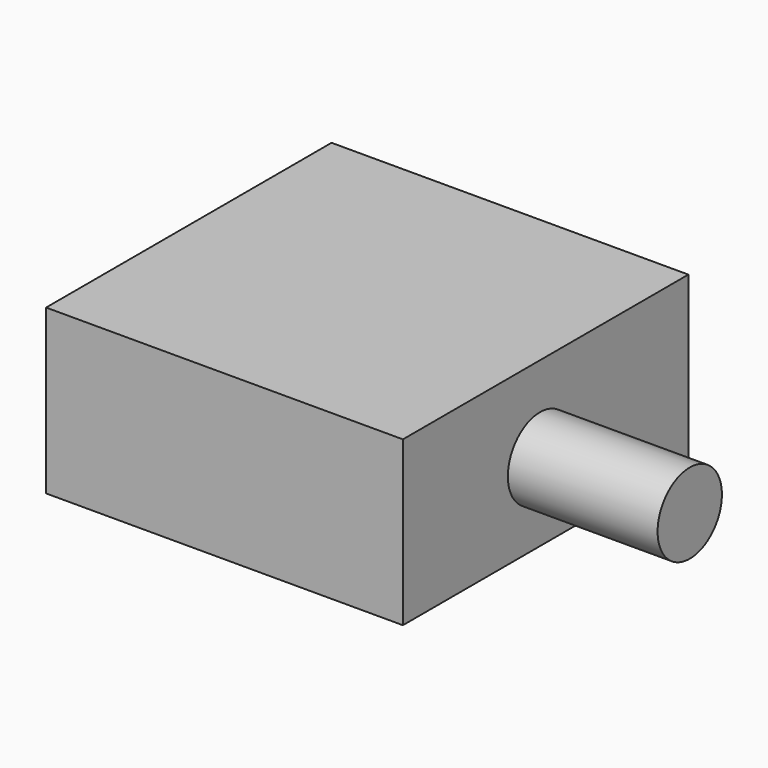
from build123d import *

# Parameters (mm, degrees)
F0_W     = 43.610103
F0_H     = 43.610103
F1_DEPTH = 20
F2_R     = 4.915217
F3_DEPTH = 18.3


with BuildPart() as f1:
    # F0 (on Top) → F1 (new body)
    with BuildSketch(Plane.XY):
        with Locations((-21.805051, 21.805051)):
            Rectangle(F0_W, F0_H)
    extrude(amount=F1_DEPTH)

    # F2 (on Right) → F3 (join)
    with BuildSketch(Plane.YZ):
        with Locations((20.946585, 9.500364)):
            Circle(F2_R)
    extrude(amount=F3_DEPTH)


solid = f1.part
